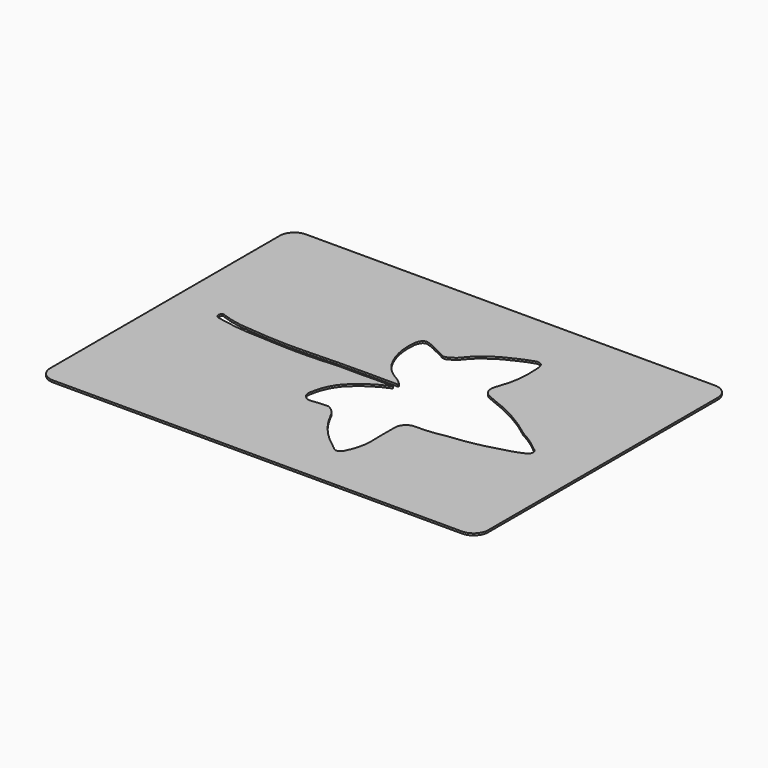
from build123d import *

# Parameters (mm, degrees)
F0_W     = 90.085417
F0_H     = 65
F1_DEPTH = 0.4
F2_R     = 3


with BuildPart() as f1:
    # F0 (on Top) → F1 (new body)
    with BuildSketch(Plane.XY):
        with Locations((-34.513384, 71.062082)):
            Rectangle(F0_W, F0_H)
        with BuildLine():
            ThreePointArc((-69.733061, 72.252296), (-70.037452, 72.9657), (-69.733061, 73.679104))
            ThreePointArc((-69.733061, 73.679104), (-66.277666, 72.662249), (-62.699161, 72.252296))
            ThreePointArc((-62.699161, 72.252296), (-56.899597, 71.827041), (-51.084463, 71.826756))
            ThreePointArc((-51.084463, 71.826756), (-41.736311, 72.036863), (-32.385804, 72.027013))
            ThreePointArc((-32.385804, 72.027013), (-32.447617, 72.318587), (-32.651793, 72.535723))
            ThreePointArc((-32.651793, 72.535723), (-33.37165, 73.170547), (-34.182325, 73.684357))
            ThreePointArc((-34.182325, 73.684357), (-36.052225, 75.011267), (-37.525058, 76.768532))
            ThreePointArc((-37.525058, 76.768532), (-39.105383, 80.56787), (-39.390337, 84.672891))
            ThreePointArc((-39.390337, 84.672891), (-39.30775, 85.296264), (-39.05791, 85.873321))
            ThreePointArc((-39.05791, 85.873321), (-38.593882, 86.426245), (-37.87595, 86.501233))
            ThreePointArc((-37.87595, 86.501233), (-36.667039, 86.0877), (-35.5305, 85.503958))
            ThreePointArc((-35.5305, 85.503958), (-34.511515, 85.040205), (-33.517476, 84.525146))
            ThreePointArc((-33.517476, 84.525146), (-32.714112, 84.219204), (-31.910747, 84.525146))
            ThreePointArc((-31.910747, 84.525146), (-30.891398, 85.144555), (-30.082405, 86.021066))
            ThreePointArc((-30.082405, 86.021066), (-28.817194, 87.387275), (-27.349122, 88.532723))
            ThreePointArc((-27.349122, 88.532723), (-25.759662, 89.611592), (-24.049083, 90.485811))
            ThreePointArc((-24.049083, 90.485811), (-22.169199, 91.371722), (-20.222886, 92.100188))
            ThreePointArc((-20.222886, 92.100188), (-19.418078, 92.135667), (-18.750982, 91.684051))
            ThreePointArc((-18.750982, 91.684051), (-18.451897, 90.696025), (-18.398469, 89.665107))
            ThreePointArc((-18.398469, 89.665107), (-18.492328, 85.684673), (-19.423964, 81.813663))
            ThreePointArc((-19.423964, 81.813663), (-19.655131, 81.135512), (-19.808523, 80.435656))
            ThreePointArc((-19.808523, 80.435656), (-19.524158, 79.083881), (-18.526657, 78.128293))
            ThreePointArc((-18.526657, 78.128293), (-16.473627, 77.251073), (-14.404099, 76.41352))
            ThreePointArc((-14.404099, 76.41352), (-10.122537, 74.16568), (-6.154825, 71.401298))
            ThreePointArc((-6.154825, 71.401298), (-3.695329, 69.924312), (-1.429767, 68.164244))
            ThreePointArc((-1.429767, 68.164244), (-0.713523, 67.146137), (-1.429767, 66.12803))
            ThreePointArc((-1.429767, 66.12803), (-3.227955, 65.416387), (-5.084508, 64.874977))
            ThreePointArc((-5.084508, 64.874977), (-9.976943, 63.629856), (-14.978415, 62.943183))
            ThreePointArc((-14.978415, 62.943183), (-17.926019, 62.451714), (-20.911293, 62.317375))
            ThreePointArc((-20.911293, 62.317375), (-22.521594, 61.884738), (-23.443695, 60.495503))
            ThreePointArc((-23.443695, 60.495503), (-23.475992, 57.653382), (-23.443695, 54.811262))
            ThreePointArc((-23.443695, 54.811262), (-23.670886, 51.635211), (-24.755443, 48.641443))
            ThreePointArc((-24.755443, 48.641443), (-25.632093, 47.926504), (-26.668407, 48.380055))
            ThreePointArc((-26.668407, 48.380055), (-27.048379, 48.641443), (-27.378937, 48.963055))
            ThreePointArc((-27.378937, 48.963055), (-31.240313, 52.474908), (-34.11299, 56.832783))
            ThreePointArc((-34.11299, 56.832783), (-35.046077, 58.204971), (-36.411949, 59.14728))
            ThreePointArc((-36.411949, 59.14728), (-37.906014, 59.079419), (-39.394673, 58.935445))
            ThreePointArc((-39.394673, 58.935445), (-41.29149, 59.47788), (-41.672554, 61.413582))
            ThreePointArc((-41.672554, 61.413582), (-40.874342, 64.095279), (-39.394673, 66.469982))
            ThreePointArc((-39.394673, 66.469982), (-36.262975, 69.133012), (-32.618675, 71.035206))
            ThreePointArc((-32.618675, 71.035206), (-35.665717, 71.099965), (-38.712759, 71.035206))
            ThreePointArc((-38.712759, 71.035206), (-41.521297, 71.056807), (-44.329915, 71.061701))
            ThreePointArc((-44.329915, 71.061701), (-48.366856, 70.808622), (-52.411202, 70.743747))
            ThreePointArc((-52.411202, 70.743747), (-56.196688, 70.850198), (-59.977759, 71.061701))
            ThreePointArc((-59.977759, 71.061701), (-63.884718, 71.260632), (-67.755558, 71.826756))
            ThreePointArc((-67.755558, 71.826756), (-68.747937, 72.022667), (-69.733061, 72.252296))
        make_face(mode=Mode.SUBTRACT)
    extrude(amount=F1_DEPTH)

    # F2
    f2_edges = [f1.edges().sort_by_distance(p)[0] for p in [
        (-79.556093, 38.562082, 0.2),
        (-79.556093, 103.562082, 0.2),
        (10.529324, 38.562082, 0.2),
        (10.529324, 103.562082, 0.2),
    ]]
    fillet(f2_edges, radius=F2_R)


solid = f1.part
